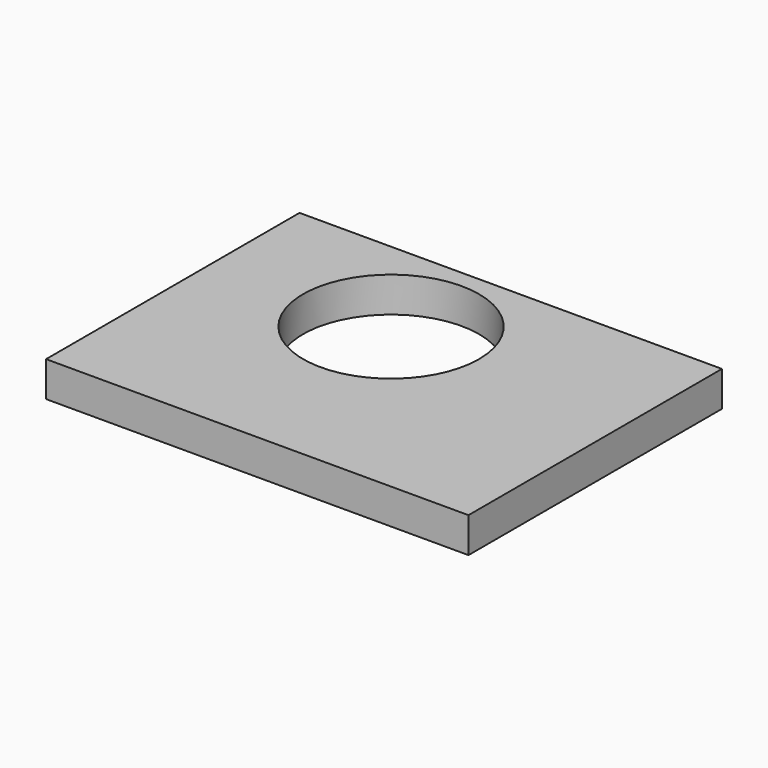
from build123d import *

# Parameters (mm, degrees)
F0_W     = 304.8
F0_H     = 228.6
F0_R     = 63.5
F1_DEPTH = 12.7


with BuildPart() as f1:
    # F0 (on Top) → F1 (new body, symmetric)
    with BuildSketch(Plane.XY):
        with Locations((152.4, 114.3)):
            Rectangle(F0_W, F0_H)
        with Locations((127, 152.4)):
            Circle(F0_R, mode=Mode.SUBTRACT)
    extrude(amount=F1_DEPTH, both=True)


solid = f1.part
